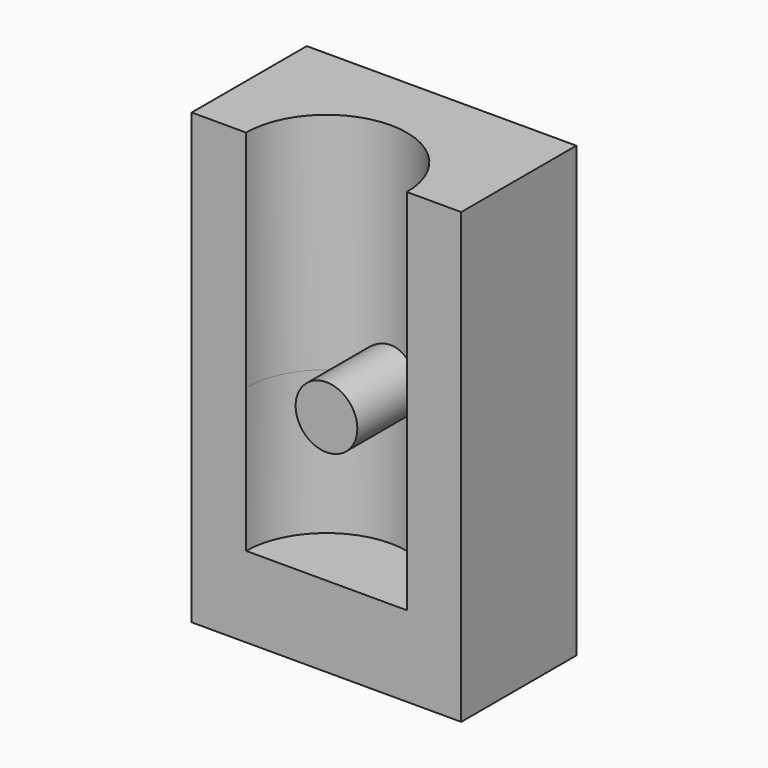
from build123d import *

# Parameters (mm, degrees)
F0_W          = 46.853558
F0_H          = 78.02628
F1_DEPTH      = 25
F2_R          = 13.971362
F3_DEPTH      = 42.8
F3_DEPTH_BACK = 25
F4_R          = 5.361649
F5_DEPTH      = 22.4


with BuildPart() as f1:
    # F0 (on Front) → F1 (new body)
    with BuildSketch(Plane.XZ):
        Rectangle(F0_W, F0_H)
    extrude(amount=-F1_DEPTH)

    # F2 (on Top) → F3 (cut, two sides)
    with BuildSketch(Plane.XY) as f3_sk:
        Circle(F2_R)
    extrude(amount=F3_DEPTH, mode=Mode.SUBTRACT)
    extrude(f3_sk.sketch, amount=-F3_DEPTH_BACK, mode=Mode.SUBTRACT)

    # F4 (on Front) → F5 (join)
    with BuildSketch(Plane.XZ):
        Circle(F4_R)
    extrude(amount=-F5_DEPTH)


solid = f1.part
